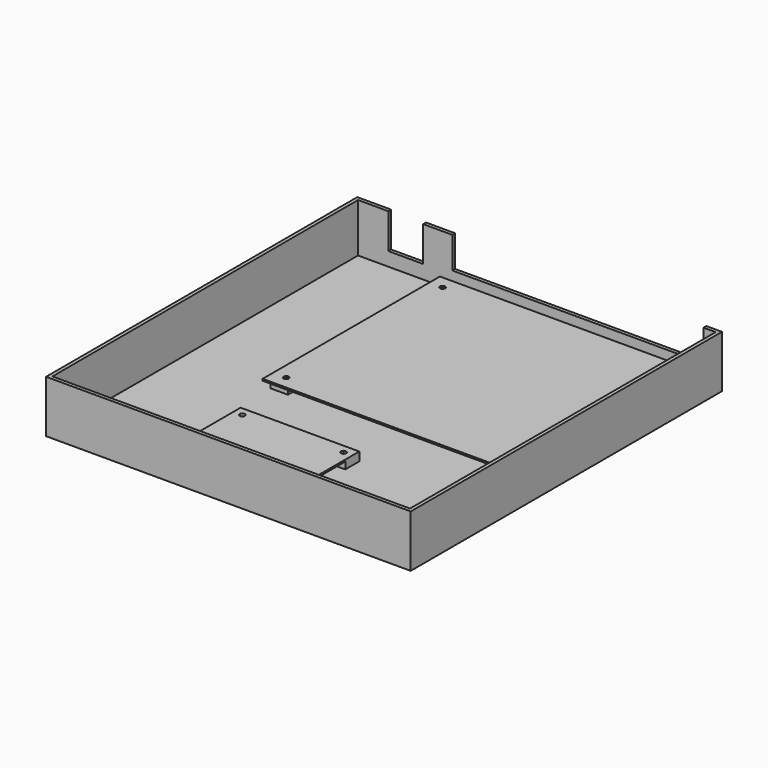
from build123d import *

# Parameters (mm, degrees)
F0_W       = 68
F0_H       = 58.5
F1_DEPTH   = 1
F0_W_2     = 155
F0_H_2     = 127
F2_W       = 10
F2_H       = 10
F2_R       = 1.4
F3_DEPTH   = 4
F4_D       = 3
F4_DEPTH   = 3
F4_TIP     = 0.9012909285
F4_2_D     = 3
F4_2_DEPTH = 3
F4_2_TIP   = 0.9012909285
F6_W       = 209
F6_H       = 223
F7_DEPTH   = 30
F8_T       = -2
F9_W       = 144
F9_H       = 18
F9_W_2     = 20
F9_H_2     = 20.1240624189
F10_DEPTH  = 2


with BuildPart() as f1:
    # F0 (on Top) → F1 (new body)
    with BuildSketch(Plane.XY):
        with Locations((-24.8868372291, -7.5060833693)):
            Rectangle(F0_W, F0_H)
    extrude(amount=F1_DEPTH)

    # F2 (on face) → F3 (join)
    with BuildSketch(Plane(origin=(0, 0, 0), x_dir=(1, 0, 0), z_dir=(0, 0, -1))):
        with Locations((-53.8868372291, 31.7560833693)):
            Rectangle(F2_W, F2_H)
        with Locations((-53.8868372291, 31.7560833693)):
            Circle(F2_R, mode=Mode.SUBTRACT)
        with Locations((4.1131627709, 31.7560833693)):
            Rectangle(F2_W, F2_H)
        with Locations((4.1131627709, 31.7560833693)):
            Circle(F2_R, mode=Mode.SUBTRACT)
        with Locations((-53.8868372291, -16.7439166307)):
            Rectangle(F2_W, F2_H)
        with Locations((-53.8868372291, -16.7439166307)):
            Circle(F2_R, mode=Mode.SUBTRACT)
        with Locations((4.1131627709, -16.7439166307)):
            Rectangle(F2_W, F2_H)
        with Locations((4.1131627709, -16.7439166307)):
            Circle(F2_R, mode=Mode.SUBTRACT)
    extrude(amount=F3_DEPTH)

    # F4 (one way)
    with BuildSketch(Plane(origin=(0, 0, 0), x_dir=(1, 0, 0), z_dir=(0, 0, -1))):
        with Locations((-53.8868372291, 31.7560833693), (-53.8868372291, -16.7439166307), (4.1131627709, -16.7439166307), (4.1131627709, 31.7560833693), (-61.1643928289, -169.2439166307), (-61.1643928289, -57.2439166307), (78.8356071711, -57.2439166307), (78.8356071711, -169.2439166307)):
            Circle(F4_D / 2)
    extrude(amount=-F4_DEPTH, mode=Mode.SUBTRACT)
    with Locations(Plane(origin=(0, 0, 0), x_dir=(1, 0, 0), z_dir=(0, 0, -1))):
        with Locations((-53.8868372291, 31.7560833693), (-53.8868372291, -16.7439166307), (4.1131627709, -16.7439166307), (4.1131627709, 31.7560833693), (-61.1643928289, -169.2439166307), (-61.1643928289, -57.2439166307), (78.8356071711, -57.2439166307), (78.8356071711, -169.2439166307)):
            with Locations((0, 0, -(F4_DEPTH + F4_TIP / 2))):  # 118° drill point
                Cone(0, F4_D / 2, F4_TIP, mode=Mode.SUBTRACT)


with BuildPart() as f1b:
    # F0 (on Top) → F1, piece 2 (new body)
    with BuildSketch(Plane.XY):
        with Locations((8.8356071711, 113.2439166307)):
            Rectangle(F0_W_2, F0_H_2)
    extrude(amount=F1_DEPTH)

    # F2 (on face) → F3, piece 2 (join)
    with BuildSketch(Plane(origin=(0, 0, 0), x_dir=(1, 0, 0), z_dir=(0, 0, -1))):
        with Locations((-61.1643928289, -169.2439166307)):
            Rectangle(F2_W, F2_H)
        with Locations((78.8356071711, -169.2439166307)):
            Rectangle(F2_W, F2_H)
        with Locations((-61.1643928289, -57.2439166307)):
            Rectangle(F2_W, F2_H)
        with Locations((78.8356071711, -57.2439166307)):
            Rectangle(F2_W, F2_H)
    extrude(amount=F3_DEPTH)

    # F4#2 (one way)
    with BuildSketch(Plane(origin=(0, 0, 0), x_dir=(1, 0, 0), z_dir=(0, 0, -1))):
        with Locations((-53.8868372291, 31.7560833693), (-53.8868372291, -16.7439166307), (4.1131627709, -16.7439166307), (4.1131627709, 31.7560833693), (-61.1643928289, -169.2439166307), (-61.1643928289, -57.2439166307), (78.8356071711, -57.2439166307), (78.8356071711, -169.2439166307)):
            Circle(F4_2_D / 2)
    extrude(amount=-F4_2_DEPTH, mode=Mode.SUBTRACT)
    with Locations(Plane(origin=(0, 0, 0), x_dir=(1, 0, 0), z_dir=(0, 0, -1))):
        with Locations((-53.8868372291, 31.7560833693), (-53.8868372291, -16.7439166307), (4.1131627709, -16.7439166307), (4.1131627709, 31.7560833693), (-61.1643928289, -169.2439166307), (-61.1643928289, -57.2439166307), (78.8356071711, -57.2439166307), (78.8356071711, -169.2439166307)):
            with Locations((0, 0, -(F4_2_DEPTH + F4_2_TIP / 2))):  # 118° drill point
                Cone(0, F4_2_D / 2, F4_2_TIP, mode=Mode.SUBTRACT)


with BuildPart() as f7:
    # F6 (on offset) → F7 (new body)
    with BuildSketch(Plane.XY.offset(-7)):
        with Locations((-14.7055135965, 69.2439166307)):
            Rectangle(F6_W, F6_H)
    extrude(amount=F7_DEPTH)

    # F8
    f8_openings = [f7.faces().sort_by_distance(p)[0] for p in [
        (-14.705514, 69.243917, 23),
    ]]
    offset(amount=F8_T, openings=f8_openings)

    # F9 (on face) → F10 (cut)
    with BuildSketch(Plane(origin=(0, 180.7439166307, 0), x_dir=(-1, 0, 0), z_dir=(0, 1, 0))):
        with Locations((-8.8356071711, 14)):
            Rectangle(F9_W, F9_H)
        with Locations((89.8379927874, 12.9379687905)):
            Rectangle(F9_W_2, F9_H_2)
    extrude(amount=-F10_DEPTH, mode=Mode.SUBTRACT)


solid = Compound([f1.part, f1b.part, f7.part])
